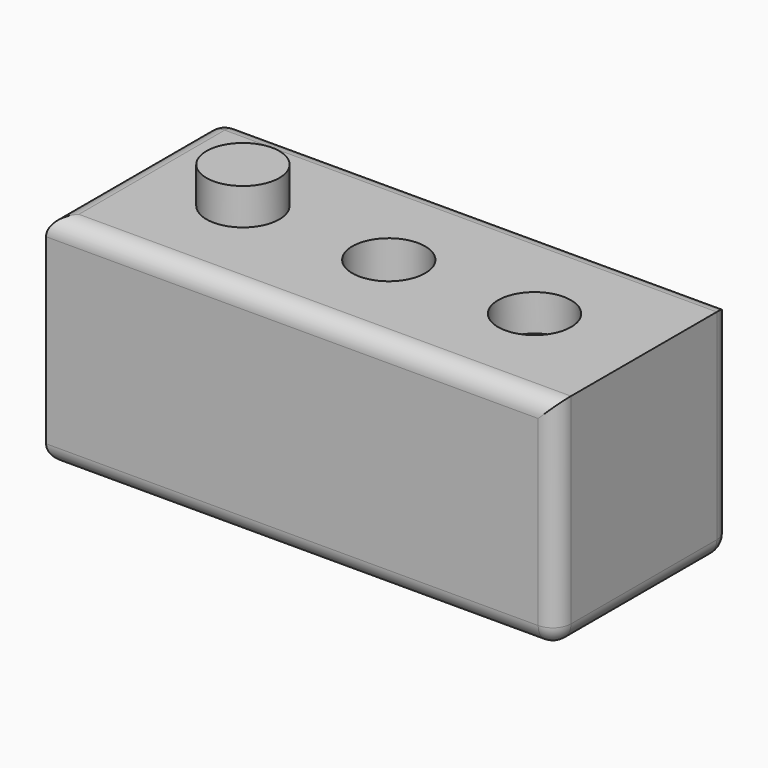
from build123d import *

# Parameters (mm, degrees)
F0_W     = 140
F0_H     = 60
F1_DEPTH = 60
F2_R     = 10
F5_DEPTH = 10
F4_R     = 10
F6_DEPTH = 103.2
F3_R     = 10
F7_DEPTH = 10
F8_R     = 5


with BuildPart() as f1:
    # F0 (on Top) → F1 (new body)
    with BuildSketch(Plane.XY):
        Rectangle(F0_W, F0_H)
    extrude(amount=F1_DEPTH)

    # F2 (on face) → F5 (join)
    with BuildSketch(Plane.XY.offset(60)):
        with Locations((-40, 0)):
            Circle(F2_R)
    extrude(amount=F5_DEPTH)

    # F4 (on face) → F6 (cut)
    with BuildSketch(Plane.XY.offset(60)):
        Circle(F4_R)
    extrude(amount=-F6_DEPTH, mode=Mode.SUBTRACT)

    # F3 (on face) → F7 (cut)
    with BuildSketch(Plane.XY.offset(60)):
        with Locations((40, 0)):
            Circle(F3_R)
    extrude(amount=-F7_DEPTH, mode=Mode.SUBTRACT)

    # F8
    f8_edges = [f1.edges().sort_by_distance(p)[0] for p in [
        (0, 30, 60),
        (-70, 0, 60),
        (0, -30, 60),
        (70, 30, 30),
        (-70, 30, 30),
        (0, 30, 0),
        (70, 0, 0),
        (0, -30, 0),
        (-70, 0, 0),
        (70, -30, 30),
    ]]
    fillet(f8_edges, radius=F8_R)


solid = f1.part
